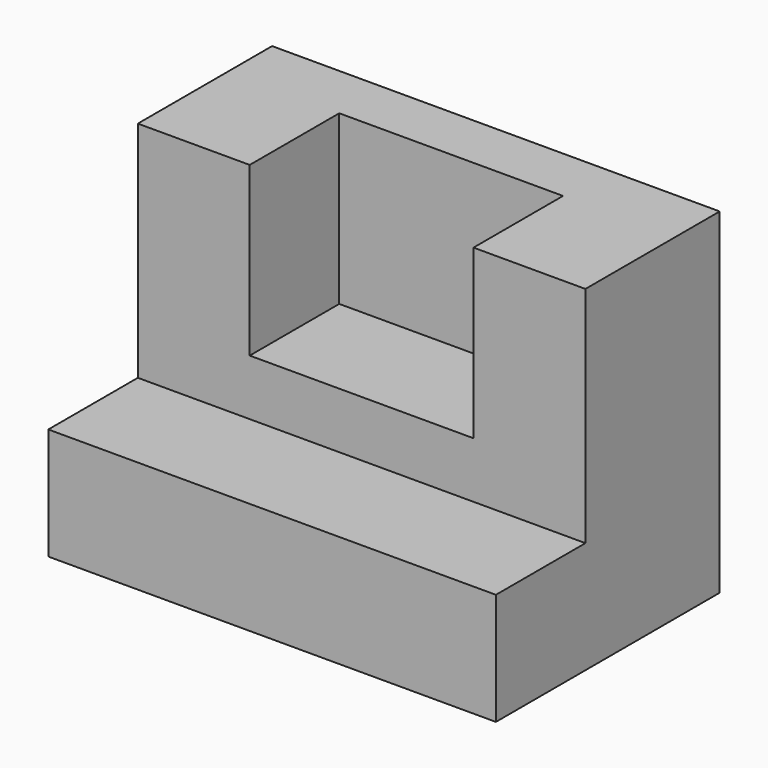
from build123d import *

# Parameters (mm, degrees)
F0_W     = 101.6
F0_H     = 63.5
F1_DEPTH = 25.4
F3_DEPTH = 50.8
F2_W     = 50.8
F2_H     = 25.4
F4_DEPTH = 12.7


with BuildPart() as f1:
    # F0 (on Top) → F1 (new body)
    with BuildSketch(Plane.XY):
        with Locations((-5.790832, -1.470545)):
            Rectangle(F0_W, F0_H)
    extrude(amount=F1_DEPTH)

    # F2 (on face) → F3 (join)
    with BuildSketch(Plane.XY.offset(25.4)):
        Polygon((-56.590832, 30.279455), (-56.590832, -7.820545), (-31.190832, -7.820545), (-31.190832, 17.579455), (19.609168, 17.579455), (19.609168, -7.820545), (45.009168, -7.820545), (45.009168, 30.279455), align=None)
    extrude(amount=F3_DEPTH)

    # F2 (on face) → F4 (join)
    with BuildSketch(Plane.XY.offset(25.4)):
        with Locations((-5.790832, 4.879455)):
            Rectangle(F2_W, F2_H)
    extrude(amount=F4_DEPTH)


solid = f1.part
